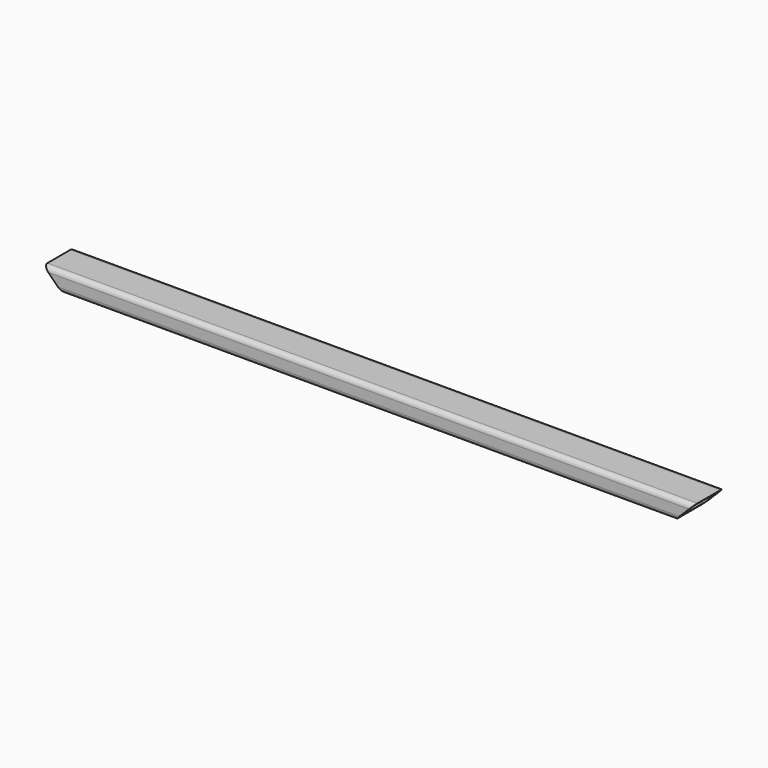
from build123d import *

# Parameters (mm, degrees)
F1_DEPTH      = 215.9
F3_DEPTH      = 12.701
F3_DEPTH_BACK = 12.701


with BuildPart() as f1:
    # F0 (on Right) → F1 (new body, symmetric)
    with BuildSketch(Plane.YZ):
        with BuildLine():
            Line((-12.7, 3.175), (-12.7, -3.175))
            ThreePointArc((-12.7, -3.175), (-11.7700640303, -5.4200640303), (-9.525, -6.35))
            Line((-9.525, -6.35), (9.525, -6.35))
            ThreePointArc((9.525, -6.35), (11.7700640303, -5.4200640303), (12.7, -3.175))
            Line((12.7, -3.175), (12.7, 3.175))
            ThreePointArc((12.7, 3.175), (11.7700640303, 5.4200640303), (9.525, 6.35))
            Line((9.525, 6.35), (-9.525, 6.35))
            ThreePointArc((-9.525, 6.35), (-11.7700640303, 5.4200640303), (-12.7, 3.175))
        make_face()
        with BuildLine():
            ThreePointArc((-11.049, 3.175), (-10.6026307345, 4.2526307345), (-9.525, 4.699))
            Line((-9.525, 4.699), (9.525, 4.699))
            ThreePointArc((9.525, 4.699), (10.6026307345, 4.2526307345), (11.049, 3.175))
            Line((11.049, 3.175), (11.049, -3.175))
            ThreePointArc((11.049, -3.175), (10.6026307345, -4.2526307345), (9.525, -4.699))
            Line((9.525, -4.699), (-9.525, -4.699))
            ThreePointArc((-9.525, -4.699), (-10.6026307345, -4.2526307345), (-11.049, -3.175))
            Line((-11.049, -3.175), (-11.049, 3.175))
        make_face(mode=Mode.SUBTRACT)
    extrude(amount=F1_DEPTH, both=True)

    # F2 (on Front) → F3 (cut, two sides)
    with BuildSketch(Plane.XZ) as f3_sk:
        Polygon((-215.9, 6.35), (-215.9, -6.35), (-203.2, -6.35), align=None)
        Polygon((203.2, -6.35), (215.9, -6.35), (215.9, 6.35), align=None)
    extrude(amount=-F3_DEPTH, mode=Mode.SUBTRACT)
    extrude(f3_sk.sketch, amount=F3_DEPTH_BACK, mode=Mode.SUBTRACT)


solid = f1.part
